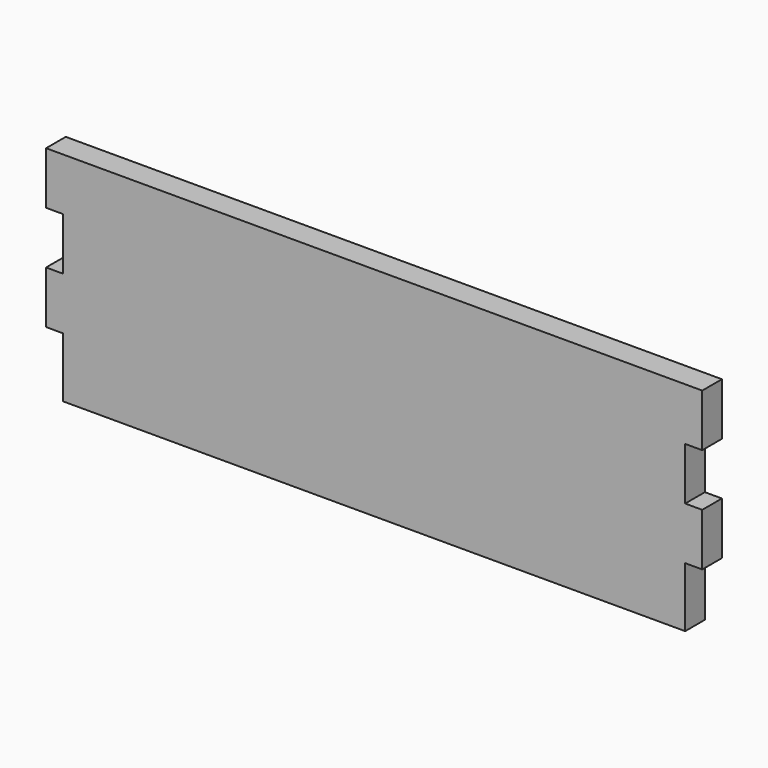
from build123d import *

# Parameters (mm, degrees)
F0_W     = 13.198039
F0_H     = 40.64
F0_W_2   = 13.19804
F1_DEPTH = 19.05


with BuildPart() as f1:
    # F0 (on Front) → F1 (new body)
    with BuildSketch(Plane.XZ):
        with Locations((-121.700112, 46.852017)):
            Rectangle(F0_W, F0_H)
        with Locations((373.101848, 46.852017)):
            Rectangle(F0_W_2, F0_H)
        with Locations((-121.700112, -34.427983)):
            Rectangle(F0_W, F0_H)
        with Locations((373.101848, -34.427983)):
            Rectangle(F0_W_2, F0_H)
        Polygon((366.502828, 67.172017), (-115.101093, 67.172017), (-115.101093, 26.532017), (-115.101093, -14.107983), (-115.101093, -54.747983), (-115.101093, -101.102983), (366.502828, -101.102983), (366.502828, -54.747983), (366.502828, -14.107983), (366.502828, 26.532017), align=None)
    extrude(amount=F1_DEPTH)


solid = f1.part
